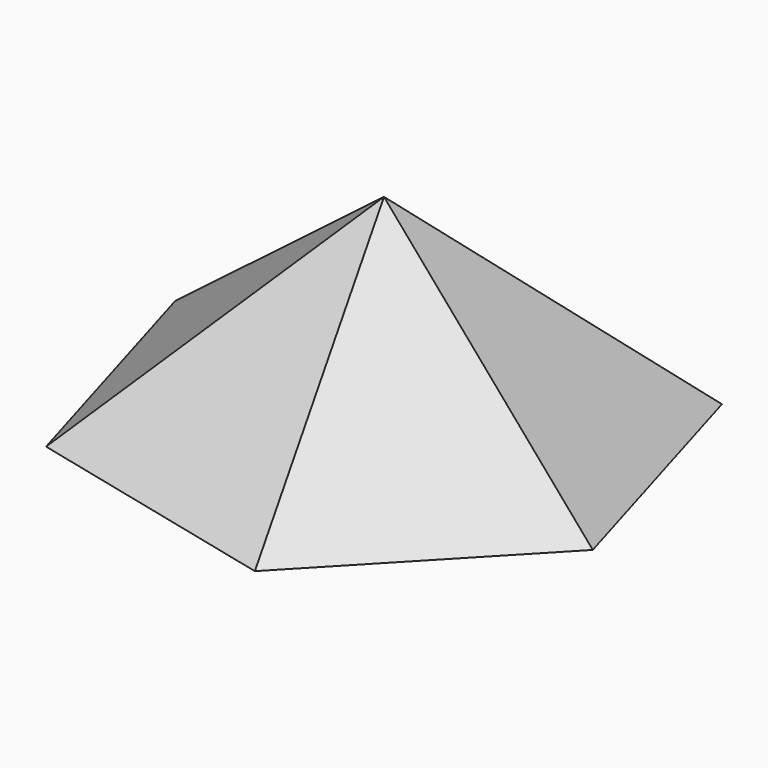
from build123d import *


with BuildPart() as f3:
    # F0 (on Top) → F3 section 0
    with BuildSketch(Plane.XY, mode=Mode.PRIVATE) as f3_s0:
        Polygon((-65.992664, 15.955869), (-46.81452, -49.173389), (19.178144, -65.129258), (65.992664, -15.955869), (46.81452, 49.173389), (-19.178144, 65.129258), align=None)
    loft([f3_s0.sketch, Vertex(0, 0, 51.3)])


solid = f3.part
